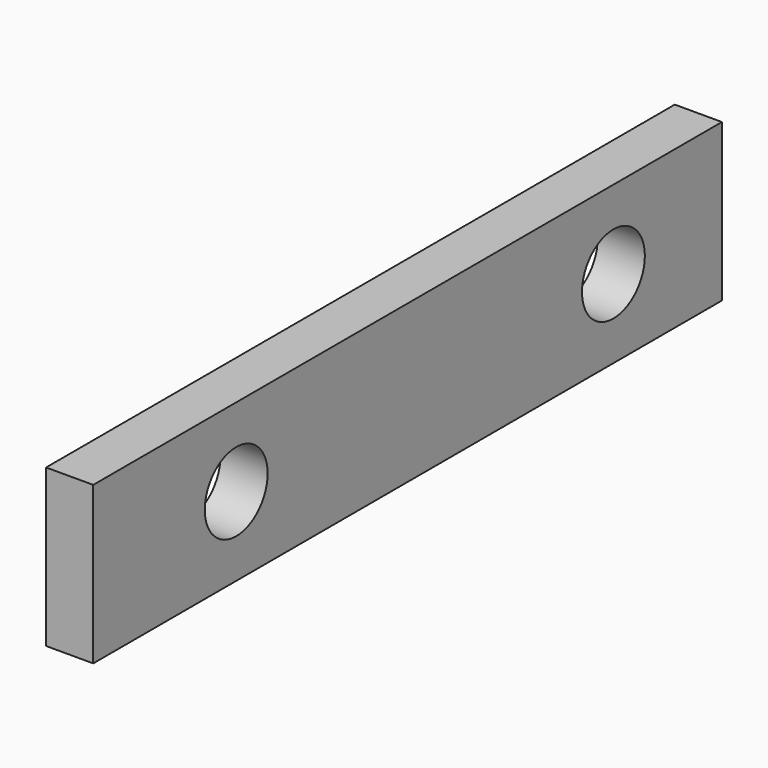
from build123d import *

# Parameters (mm, degrees)
F0_W     = 50
F0_H     = 10
F0_R     = 2.5
F1_DEPTH = 5
F2_DEPTH = 2


with BuildPart() as f1:
    # F0 (on Right) → F1 (new body)
    with BuildSketch(Plane.YZ):
        with Locations((-25, 5)):
            Rectangle(F0_W, F0_H)
        with Locations((-38.6293791234, 5)):
            Circle(F0_R, mode=Mode.SUBTRACT)
        with Locations((-8.6293791234, 5)):
            Circle(F0_R, mode=Mode.SUBTRACT)
    extrude(amount=F1_DEPTH)

    # F2 (cut): a face of the model
    f2_faces = [f1.faces().sort_by_distance(p)[0] for p in [
        (5, -25.1168236174, 5),
    ]]
    extrude(f2_faces, amount=-F2_DEPTH, mode=Mode.SUBTRACT)


solid = f1.part
